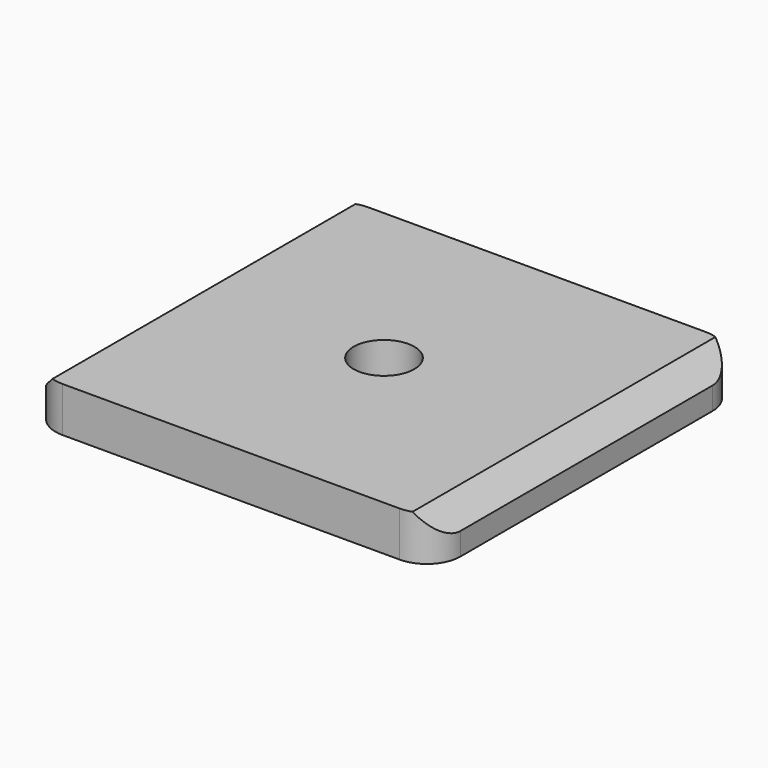
from build123d import *

# Parameters (mm, degrees)
SKETCH020_W     = 36
SKETCH020_H     = 34
SKETCH020_R     = 2.7
PAD003_DEPTH    = 4
CHAMFER001_SIZE = 2
FILLET001_R     = 3


with BuildPart() as part:
    # Sketch020 → Pad003 (new body)
    with BuildSketch(Plane.XY):
        Rectangle(SKETCH020_W, SKETCH020_H)
        Circle(SKETCH020_R, mode=Mode.SUBTRACT)
    extrude(amount=PAD003_DEPTH)

    # Chamfer001
    chamfer001_edges = [part.edges().sort_by_distance(p)[0] for p in [
        (18, 0, 4),
        (-18, 0, 4),
    ]]
    chamfer(chamfer001_edges, length=CHAMFER001_SIZE)

    # Fillet001
    fillet001_edges = [part.edges().sort_by_distance(p)[0] for p in [
        (-18, -17, 1),
        (18, -17, 1),
        (-18, 17, 1),
        (18, 17, 1),
    ]]
    fillet(fillet001_edges, radius=FILLET001_R)


with BuildPart() as part_1:
    # Body005 placement: moved
    add(part.part.moved(Location((106.9, 117.1, 79.6))))


solid = part_1.part
